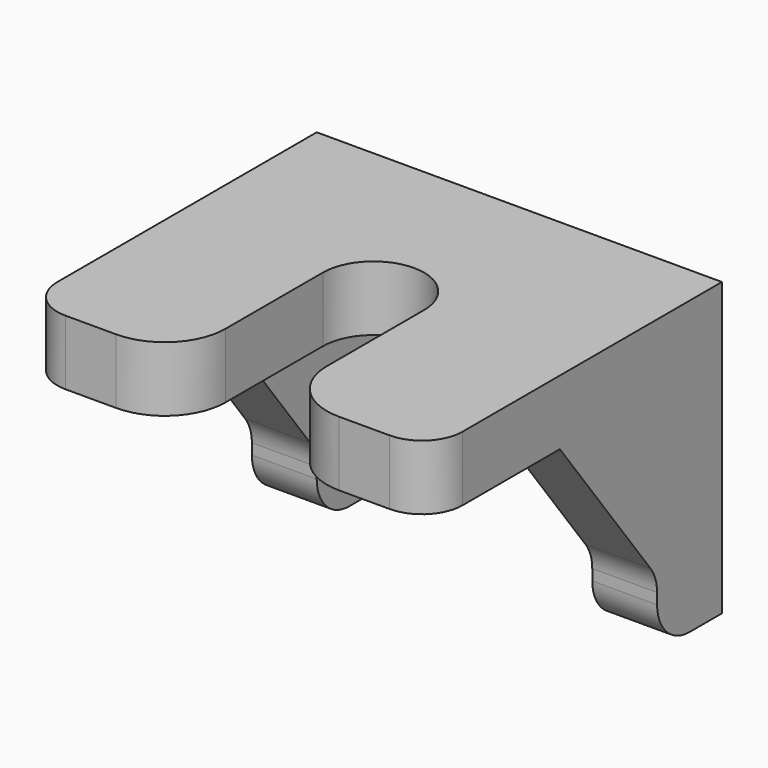
from build123d import *

# Parameters (mm, degrees)
PAD002_DEPTH            = 1.6
PAD003_DEPTH            = 1.6
LINEARPATTERN_COUNT     = 2
LINEARPATTERN_PITCH     = 8.4
FILLET_R                = 1
FILLET001_R             = 1
FILLET002_R             = 1
FILLET003_R             = 1.5
BODY001_PLACEMENT_ANGLE = 90


with BuildPart() as part:
    # Sketch004 → Pad002 (new body)
    with BuildSketch(Plane.XY):
        with BuildLine():
            Line((-4.5, 5), (4.5, 5))
            Line((4.5, 5), (4.5, 1.25))
            Line((0, 1.25), (4.5, 1.25))
            ThreePointArc((0, 1.25), (-1.25, 0), (0, -1.25))
            Line((4.5, -1.25), (0, -1.25))
            Line((4.5, -1.25), (4.5, -5))
            Line((4.5, -5), (-4.5, -5))
            Line((-4.5, -5), (-4.5, 5))
        make_face()
    extrude(amount=PAD002_DEPTH)

    # Sketch005 (on DatumPlane) → Pad003 (join)
    with BuildSketch(Plane.XZ.offset(5)):
        Polygon((-4.5, 0), (-4.5, -5.6), (-2.5, -5.6), (-2.5, -4), (0.5, 0), align=None)
    pad003 = extrude(amount=-PAD003_DEPTH)

    # LinearPattern: Pad003 ×2
    with Locations(*[(0, i * LINEARPATTERN_PITCH, 0) for i in range(1, LINEARPATTERN_COUNT)]):
        add(pad003)

    # Fillet
    fillet_edges = [part.edges().sort_by_distance(p)[0] for p in [
        (-2.5, -4.2, -5.6),
        (-2.5, 4.2, -5.6),
    ]]
    fillet(fillet_edges, radius=FILLET_R)

    # Fillet001
    fillet001_edges = [part.edges().sort_by_distance(p)[0] for p in [
        (-2.5, -4.2, -4),
        (-2.5, 4.2, -4),
    ]]
    fillet(fillet001_edges, radius=FILLET001_R)

    # Fillet002
    fillet002_edges = [part.edges().sort_by_distance(p)[0] for p in [
        (4.5, -5, 0.8),
        (4.5, 5, 0.8),
    ]]
    fillet(fillet002_edges, radius=FILLET002_R)

    # Fillet003
    fillet003_edges = [part.edges().sort_by_distance(p)[0] for p in [
        (4.5, -1.25, 0.8),
        (4.5, 1.25, 0.8),
    ]]
    fillet(fillet003_edges, radius=FILLET003_R)


with BuildPart() as part_1:
    # Body001 placement: moved
    add(part.part.moved(Location((22.4, -32.5, 16.4))).rotate(Axis((22.4, -32.5, 16.4), (0, 0, -1)), BODY001_PLACEMENT_ANGLE))


solid = part_1.part
